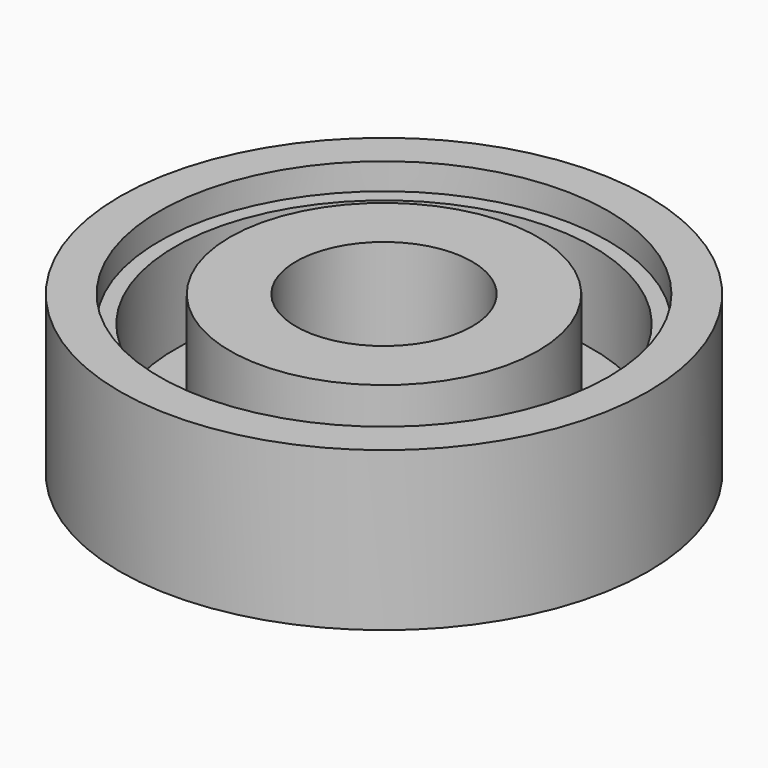
from build123d import *

# Parameters (mm, degrees)
F0_R     = 15
F0_R_2   = 12.75
F0_R_3   = 8.75
F0_R_4   = 5
F1_DEPTH = 9
F0_R_5   = 11.875
F2_DEPTH = 7.5
F3_DEPTH = 2.375


with BuildPart() as f1:
    # F0 (on Top) → F1 (new body)
    with BuildSketch(Plane.XY):
        Circle(F0_R)
        Circle(F0_R_2, mode=Mode.SUBTRACT)
        Circle(F0_R_3)
        Circle(F0_R_4, mode=Mode.SUBTRACT)
    extrude(amount=F1_DEPTH)

    # F0 (on Top) → F2 (join)
    with BuildSketch(Plane.XY):
        Circle(F0_R_2)
        Circle(F0_R_5, mode=Mode.SUBTRACT)
    extrude(amount=F2_DEPTH)


with BuildPart() as f3:
    # F0 (on Top) → F3 (new body)
    with BuildSketch(Plane.XY):
        Circle(F0_R_5)
        Circle(F0_R_3, mode=Mode.SUBTRACT)
    extrude(amount=F3_DEPTH)


solid = Compound([f1.part, f3.part])
